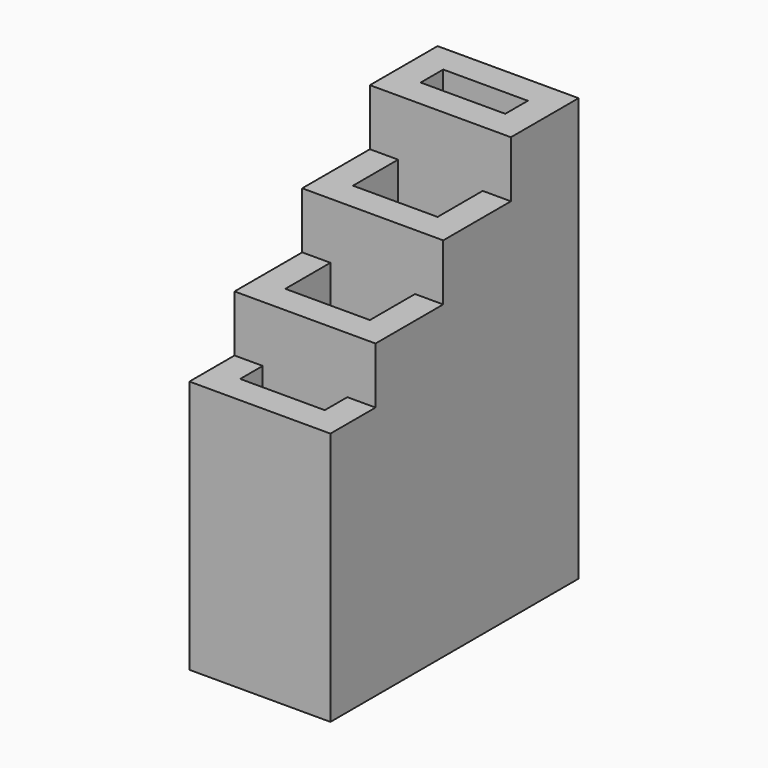
from build123d import *

# Parameters (mm, degrees)
F0_W      = 34.925
F0_H      = 47.625
F1_DEPTH  = 7.9375
F3_DEPTH  = 12.7
F4_W      = 9.525
F4_H      = 3.175
F5_DEPTH  = 44.45
F6_W      = 9.525
F6_H      = 6.35
F7_DEPTH  = 38.1
F8_W      = 9.525
F8_H      = 6.35
F9_DEPTH  = 31.75
F10_W     = 9.525
F10_H     = 3.175
F11_DEPTH = 25.4


with BuildPart() as f1:
    # F0 (on Right) → F1 (new body, symmetric)
    with BuildSketch(Plane.YZ):
        with Locations((2.406316, 16.638194)):
            Rectangle(F0_W, F0_H)
    extrude(amount=F1_DEPTH, both=True)

    # F2 (on Right) → F3 (cut, symmetric)
    with BuildSketch(Plane.YZ):
        Polygon((-15.056184, 46.800694), (-15.056184, 21.400694), (-8.706184, 21.400694), (-8.706184, 27.750694), (0.818816, 27.750694), (0.818816, 34.100694), (10.343816, 34.100694), (10.343816, 40.450694), (19.868816, 40.450694), (19.868816, 46.800694), align=None)
    extrude(amount=F3_DEPTH, both=True, mode=Mode.SUBTRACT)

    # F4 (on face) → F5 (cut)
    with BuildSketch(Plane.XY.offset(40.450694)):
        with Locations((0, 15.106316)):
            Rectangle(F4_W, F4_H)
    extrude(amount=-F5_DEPTH, mode=Mode.SUBTRACT)

    # F6 (on face) → F7 (cut)
    with BuildSketch(Plane.XY.offset(34.100694)):
        with Locations((0, 7.168816)):
            Rectangle(F6_W, F6_H)
    extrude(amount=-F7_DEPTH, mode=Mode.SUBTRACT)

    # F8 (on face) → F9 (cut)
    with BuildSketch(Plane.XY.offset(27.750694)):
        with Locations((0, -2.356184)):
            Rectangle(F8_W, F8_H)
    extrude(amount=-F9_DEPTH, mode=Mode.SUBTRACT)

    # F10 (on face) → F11 (cut)
    with BuildSketch(Plane.XY.offset(21.400694)):
        with Locations((0, -10.293684)):
            Rectangle(F10_W, F10_H)
    extrude(amount=-F11_DEPTH, mode=Mode.SUBTRACT)


solid = f1.part
